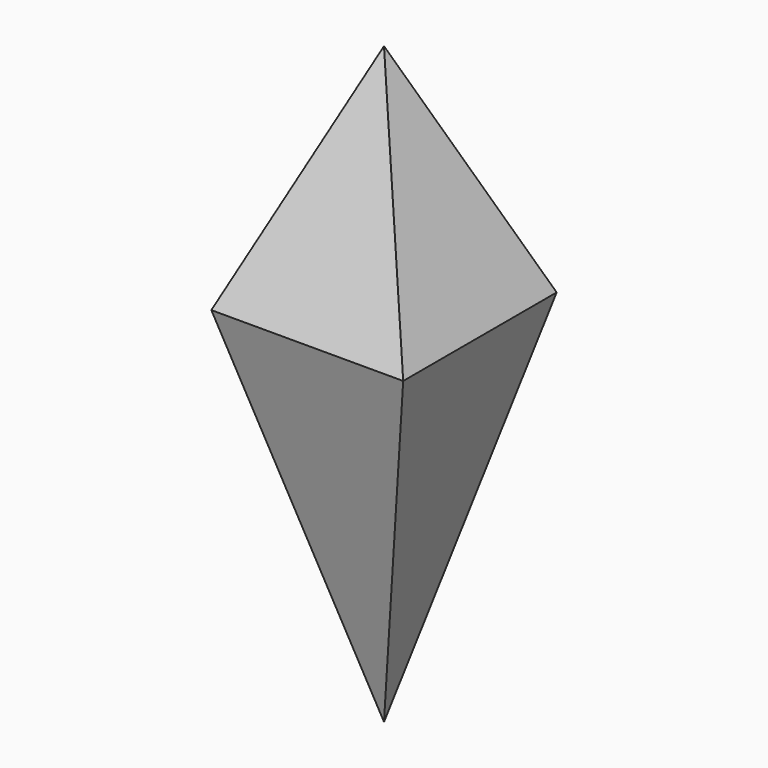
from build123d import *

# Parameters (mm, degrees)
F3_DEPTH = 12.7
F4_DEPTH = 12.7
F5_ANGLE = 90


with BuildPart() as f3:
    # F0 (on Front) → F3 (new body, symmetric)
    with BuildSketch(Plane.XZ):
        Polygon((7.784226, 0), (0, 18.228879), (-7.784226, 0), (0, -30.053018), align=None)
    extrude(amount=F3_DEPTH, both=True)


with BuildPart() as f4:
    # F1 (on Front) → F4 (new body, symmetric)
    with BuildSketch(Plane.XZ):
        Polygon((-7.784226, 0), (0, -30.053018), (7.784226, 0), (0, 18.228879), align=None)
    extrude(amount=F4_DEPTH, both=True)


with BuildPart() as f3_1:
    # F5: moved
    add(f3.part.rotate(Axis((0, 0, -12.11974), (0, 0, -1)), F5_ANGLE))


with BuildPart() as f4_1:
    add(f4.part)

    # F6: intersect F3
    add(f3_1.part, mode=Mode.INTERSECT)


solid = f4_1.part
